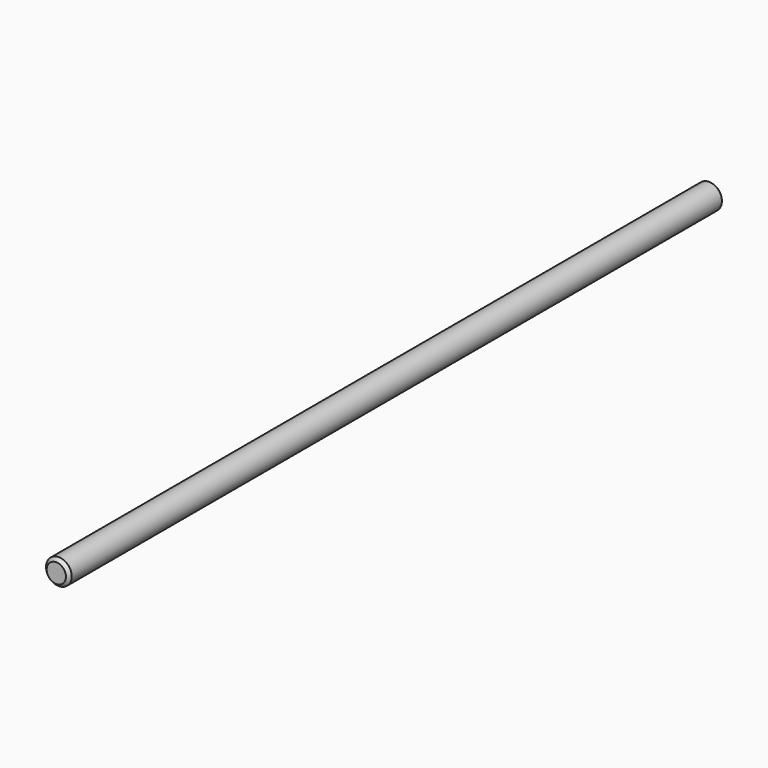
from build123d import *

# Parameters (mm, degrees)
SKETCH_R  = 2.5
PAD_DEPTH = 80


with BuildPart() as part:
    # Sketch → Pad (new body, symmetric)
    with BuildSketch(Plane.XZ):
        Circle(SKETCH_R)
    extrude(amount=PAD_DEPTH, both=True)

    # Sketch001 → Groove (revolve, cut)
    with BuildSketch(Plane.YZ):
        Polygon((-80, 4.5), (80, 4.5), (80, 1.875), (79.375, 2.5), (-79.375, 2.5), (-80, 1.875), align=None)
    revolve(axis=Axis((0, 0, 0), (0, 1, 0)), mode=Mode.SUBTRACT)


solid = part.part
